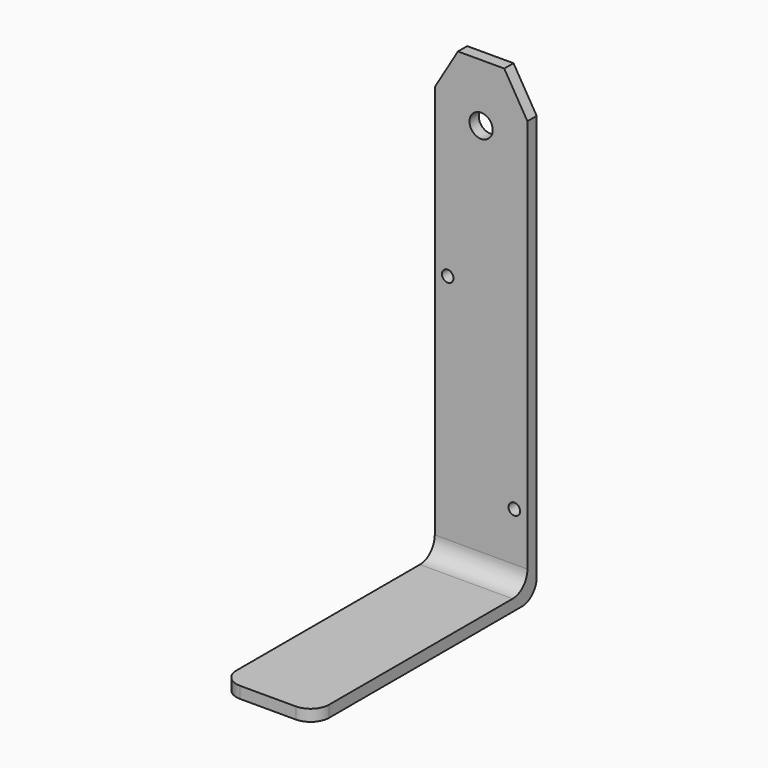
from build123d import *

# Parameters (mm, degrees)
F0_W     = 50.8
F0_H     = 6.35
F1_DEPTH = 152.4
F0_R     = 3.175
F2_DEPTH = 6.35
F3_R     = 10.16
F4_R     = 10.16


with BuildPart() as f1:
    # F0 (on Front) → F1 (new body)
    with BuildSketch(Plane.XZ):
        with Locations((0, 33.433512)):
            Rectangle(F0_W, F0_H)
    extrude(amount=F1_DEPTH)

    # F0 (on Front) → F2 (join)
    with BuildSketch(Plane.XZ):
        Polygon((-12.7, 284.258512), (-25.4, 262.963444), (-25.4, 36.608512), (25.4, 36.608512), (25.4, 262.963444), (12.7, 284.258512), (0, 284.258512), align=None)
        with Locations((18.223565, 73.40546)):
            Circle(F0_R, mode=Mode.SUBTRACT)
        with Locations((-18.311808, 173.985869)):
            Circle(F0_R, mode=Mode.SUBTRACT)
        with BuildLine():
            ThreePointArc((6.35, 252.508512), (-4.490128, 248.018384), (0, 258.858512))
            ThreePointArc((0, 258.858512), (4.490128, 256.99864), (6.35, 252.508512))
        make_face(mode=Mode.SUBTRACT)
    extrude(amount=F2_DEPTH)

    # F3
    f3_edges = [f1.edges().sort_by_distance(p)[0] for p in [
        (0, -6.35, 36.608512),
        (0, 0, 30.258512),
    ]]
    fillet(f3_edges, radius=F3_R)

    # F4
    f4_edges = [f1.edges().sort_by_distance(p)[0] for p in [
        (-25.4, -152.4, 33.433512),
        (25.4, -152.4, 33.433512),
    ]]
    fillet(f4_edges, radius=F4_R)


solid = f1.part
